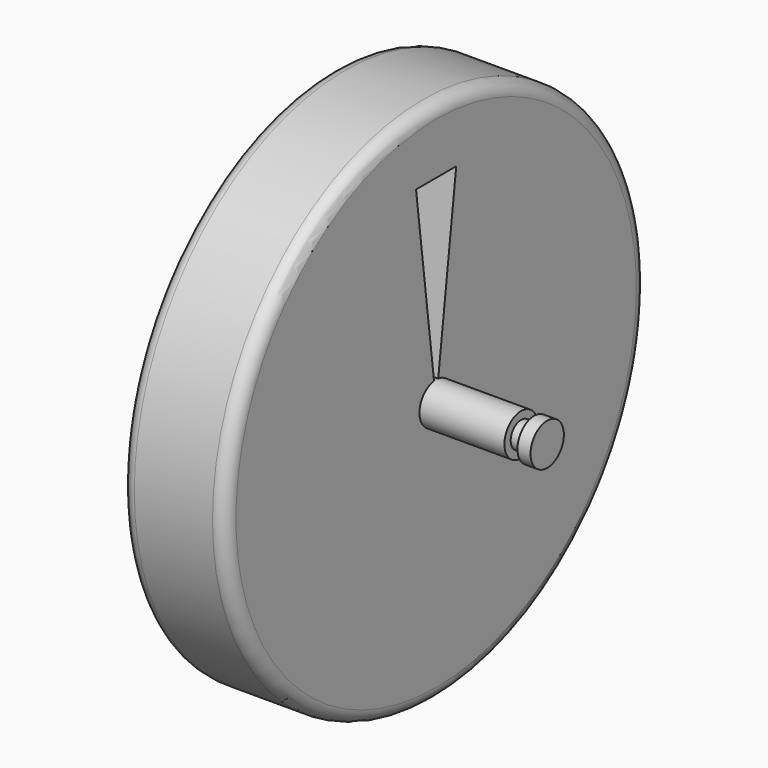
from build123d import *

# Parameters (mm, degrees)
F3_DEPTH = 82.392052


with BuildPart() as f1:
    # F0 (on Front) → F1 (revolve)
    with BuildSketch(Plane.XZ):
        with BuildLine():
            Line((-57.507594, 8), (-62.5, 8))
            Line((-62.5, 8), (-62.5, 0))
            Line((-62.5, 0), (-20.108948, 0))
            Line((-20.108948, 0), (19.891052, 0))
            Line((19.891052, 0), (62.5, 0))
            Line((62.5, 0), (62.5, 8))
            Line((62.5, 8), (57.492453, 8))
            Line((57.492453, 8), (57.492453, 5))
            Line((57.492453, 5), (52.492453, 5))
            Line((52.492453, 5), (52.492453, 8))
            Line((52.492453, 8), (19.891052, 8))
            Line((19.891052, 8), (19.891052, 96))
            ThreePointArc((19.891052, 96), (18.426586, 99.535534), (14.891052, 101))
            Line((14.891052, 101), (-15.108948, 101))
            ThreePointArc((-15.108948, 101), (-18.644481, 99.535534), (-20.108948, 96))
            Line((-20.108948, 96), (-20.108948, 8))
            Line((-20.108948, 8), (-52.507594, 8))
            Line((-52.507594, 8), (-52.507594, 5))
            Line((-52.507594, 5), (-57.507594, 5))
            Line((-57.507594, 5), (-57.507594, 8))
        make_face()
    revolve(axis=Axis((-6.764503, 0, 0), (1, 0, 0)))

    # F2 (on face) → F3 (cut, through all)
    with BuildSketch(Plane.YZ.offset(19.891052)):
        with BuildLine():
            Line((-9.635893, 76.123558), (-1.004641, 7.936668))
            ThreePointArc((-1.004641, 7.936668), (0, 8), (1.004641, 7.936668))
            Line((1.004641, 7.936668), (9.635893, 76.123558))
            Line((9.635893, 76.123558), (0, 76.123558))
            Line((0, 76.123558), (-9.635893, 76.123558))
        make_face()
    extrude(amount=-F3_DEPTH, mode=Mode.SUBTRACT)


solid = f1.part
